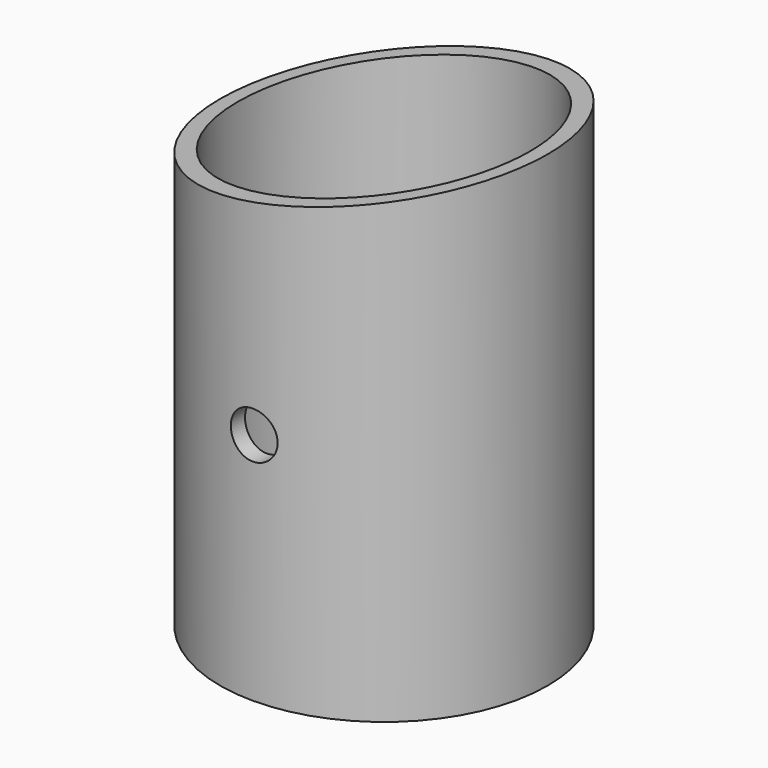
from build123d import *

# Parameters (mm, degrees)
F0_R          = 28
F0_R_2        = 25
F1_DEPTH      = 80
F3_DEPTH      = 32.9
F3_DEPTH_BACK = 46.7
F4_R          = 4
F5_DEPTH      = 64.5
F5_DEPTH_BACK = 79.1


with BuildPart() as f1:
    # F0 (on Top) → F1 (new body)
    with BuildSketch(Plane.XY):
        Circle(F0_R)
        Circle(F0_R_2, mode=Mode.SUBTRACT)
    extrude(amount=F1_DEPTH)

    # F2 (on Front) → F3 (cut, two sides)
    with BuildSketch(Plane.XZ) as f3_sk:
        Polygon((-37.074200809, 93.2216271758), (-37.0010906232, 68.5385539477), (28, 80), align=None)
    extrude(amount=-F3_DEPTH, mode=Mode.SUBTRACT)
    extrude(f3_sk.sketch, amount=F3_DEPTH_BACK, mode=Mode.SUBTRACT)

    # F4 (on Front) → F5 (cut, two sides)
    with BuildSketch(Plane.XZ) as f5_sk:
        with Locations((0, 40)):
            Circle(F4_R)
    extrude(amount=-F5_DEPTH, mode=Mode.SUBTRACT)
    extrude(f5_sk.sketch, amount=F5_DEPTH_BACK, mode=Mode.SUBTRACT)


solid = f1.part
